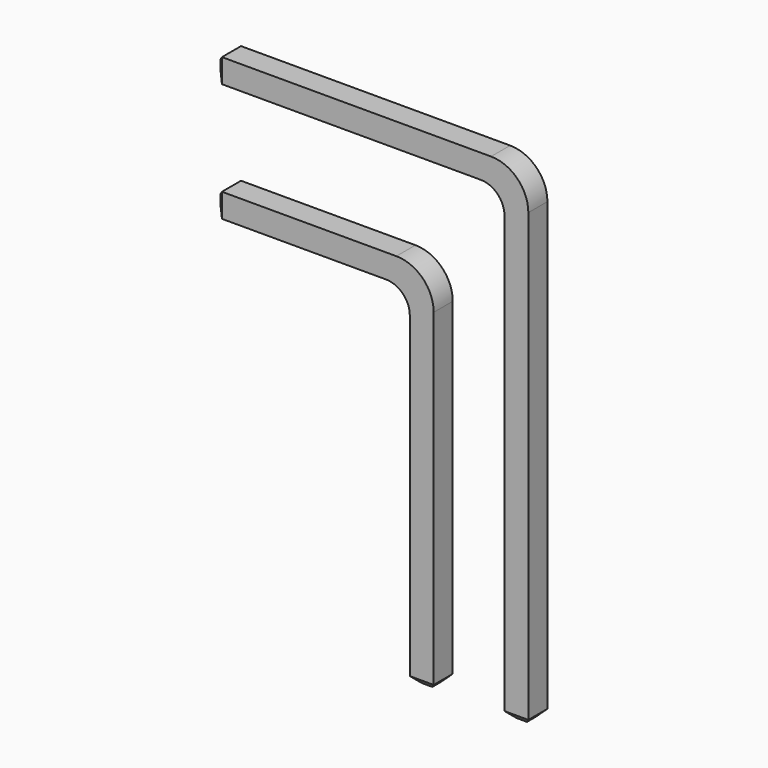
from build123d import *

# Parameters (mm, degrees)
PAD_DEPTH       = 0.64
FILLET_R        = 0.64
FILLET001_R     = 1
CHAMFER002_SIZE = 0.18


with BuildPart() as part:
    # Sketch → Pad (new body)
    with BuildSketch(Plane.XZ):
        Polygon((0, 0), (0, 13.16), (-8.4, 13.16), (-8.4, 12.52), (-0.64, 12.52), (-0.64, 0), align=None)
        Polygon((-2.54, 0), (-2.54, 9.98), (-8.4, 9.98), (-8.4, 9.34), (-3.18, 9.34), (-3.18, 0), align=None)
    extrude(amount=PAD_DEPTH)

    # Fillet
    fillet_edges = [part.edges().sort_by_distance(p)[0] for p in [
        (-3.18, -0.32, 9.34),
        (-0.64, -0.32, 12.52),
    ]]
    fillet(fillet_edges, radius=FILLET_R)

    # Fillet001
    fillet001_edges = [part.edges().sort_by_distance(p)[0] for p in [
        (-2.54, -0.32, 9.98),
        (0, -0.32, 13.16),
    ]]
    fillet(fillet001_edges, radius=FILLET001_R)

    # Chamfer002
    chamfer002_edges = [part.edges().sort_by_distance(p)[0] for p in [
        (-8.4, 0, 12.84),
        (-8.4, -0.32, 13.16),
        (-8.4, -0.64, 12.84),
        (-8.4, -0.32, 12.52),
        (-8.4, 0, 9.66),
        (-8.4, -0.64, 9.66),
        (-8.4, -0.32, 9.98),
        (-8.4, -0.32, 9.34),
        (0, -0.32, 0),
        (-0.64, -0.32, 0),
        (-0.32, 0, 0),
        (-0.32, -0.64, 0),
        (-2.86, -0.64, 0),
        (-3.18, -0.32, 0),
        (-2.54, -0.32, 0),
        (-2.86, 0, 0),
    ]]
    chamfer(chamfer002_edges, length=CHAMFER002_SIZE)


solid = part.part
